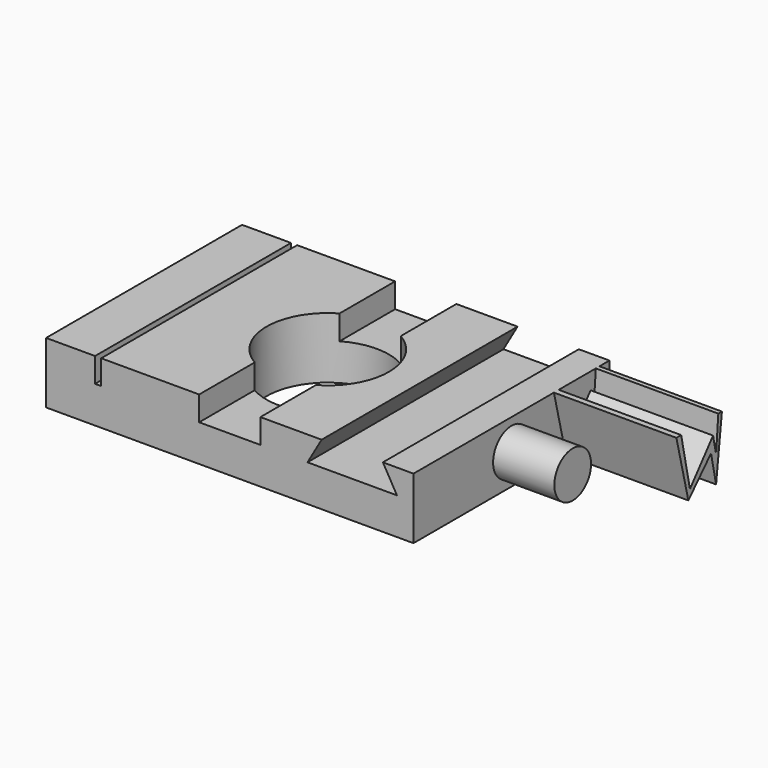
from build123d import *

# Parameters (mm, degrees)
F0_W     = 76.2
F0_H     = 50.8
F0_R     = 12.7
F1_DEPTH = 12.7
F2_W     = 1.27
F2_H     = 50.8
F3_DEPTH = 5.08
F5_DEPTH = 50.801
F6_R     = 4.7625
F7_DEPTH = 12.7
F9_DEPTH = 25.4


with BuildPart() as f1:
    # F0 (on Top) → F1 (new body)
    with BuildSketch(Plane.XY):
        Rectangle(F0_W, F0_H)
        Circle(F0_R, mode=Mode.SUBTRACT)
    extrude(amount=F1_DEPTH)

    # F2 (on face) → F3 (cut)
    with BuildSketch(Plane.XY.offset(12.7)):
        with Locations((-27.305, 0)):
            Rectangle(F2_W, F2_H)
        with BuildLine():
            Line((-6.35, -10.9985226281), (-6.35, -25.4))
            Line((-6.35, -25.4), (6.35, -25.4))
            Line((6.35, -25.4), (6.35, -10.9985226281))
            ThreePointArc((6.35, -10.9985226281), (0, -12.7), (-6.35, -10.9985226281))
        make_face()
        with BuildLine():
            Line((6.35, 25.4), (-6.35, 25.4))
            Line((-6.35, 25.4), (-6.35, 10.9985226281))
            ThreePointArc((-6.35, 10.9985226281), (0, 12.7), (6.35, 10.9985226281))
            Line((6.35, 10.9985226281), (6.35, 25.4))
        make_face()
    extrude(amount=-F3_DEPTH, mode=Mode.SUBTRACT)

    # F4 (on face) → F5 (cut, through all)
    with BuildSketch(Plane.XZ.offset(25.4)):
        Polygon((31.75, 12.7), (19.05, 12.7), (16.1170606325, 7.62), (34.6829393675, 7.62), align=None)
    extrude(amount=-F5_DEPTH, mode=Mode.SUBTRACT)

    # F6 (on face) → F7 (join)
    with BuildSketch(Plane.YZ.offset(38.1)):
        with Locations((0, 6.35)):
            Circle(F6_R)
    extrude(amount=F7_DEPTH)

    # F8 (on face) → F9 (join)
    with BuildSketch(Plane.YZ.offset(38.1)):
        Polygon((12.2501304301, 12.7), (11.0074644908, 12.7), (14.1120990738, 0), (19.9945662171, 6.2075415626), (21.301779896, 0), (22.8132493794, 12.7), (21.8736864626, 12.7), (21.301779896, 5.513084121), (20.5153317719, 9.2476758682), (14.5206041634, 1.9182431279), align=None)
    extrude(amount=F9_DEPTH)


solid = f1.part
